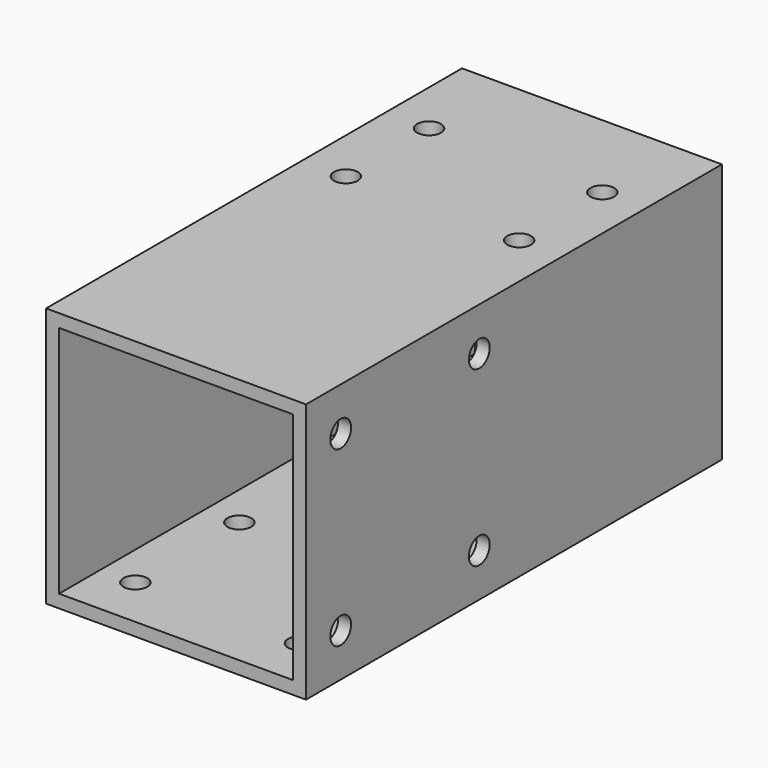
from build123d import *

# Parameters (mm, degrees)
SKETCH_W        = 60
SKETCH_H        = 60
SKETCH_W_2      = 54
SKETCH_H_2      = 54
PAD_DEPTH       = 120
SKETCH001_R     = 2.75
POCKET_DEPTH    = 3
SKETCH002_R     = 2.75
POCKET001_DEPTH = 3
SKETCH003_R     = 3
POCKET002_DEPTH = 3


with BuildPart() as part:
    # Sketch → Pad (new body)
    with BuildSketch(Plane.XZ):
        Rectangle(SKETCH_W, SKETCH_H)
        Rectangle(SKETCH_W_2, SKETCH_H_2, mode=Mode.SUBTRACT)
    extrude(amount=PAD_DEPTH)

    # Sketch001 (on Face3 of Pad) → Pocket (cut)
    with BuildSketch(Plane(origin=(0, 0, -30), x_dir=(1, 0, 0), z_dir=(0, 0, -1))):
        with Locations((-19, 108)):
            Circle(SKETCH001_R)
        with Locations((-19, 78)):
            Circle(SKETCH001_R)
        with Locations((19, 108)):
            Circle(SKETCH001_R)
        with Locations((19, 78)):
            Circle(SKETCH001_R)
        with Locations((-19, 42)):
            Circle(SKETCH001_R)
        with Locations((-19, 12)):
            Circle(SKETCH001_R)
        with Locations((19, 42)):
            Circle(SKETCH001_R)
        with Locations((19, 12)):
            Circle(SKETCH001_R)
    extrude(amount=-POCKET_DEPTH, mode=Mode.SUBTRACT)

    # Sketch002 (on Face1 of Pocket) → Pocket001 (cut)
    with BuildSketch(Plane(origin=(0, 0, 30), x_dir=(-1, 0, 0), z_dir=(0, 0, 1))):
        with Locations((-20, 46)):
            Circle(SKETCH002_R)
        with Locations((-20, 22)):
            Circle(SKETCH002_R)
        with Locations((20, 46)):
            Circle(SKETCH002_R)
        with Locations((20, 22)):
            Circle(SKETCH002_R)
    extrude(amount=-POCKET001_DEPTH, mode=Mode.SUBTRACT)

    # Sketch003 (on Face5 of Pocket001) → Pocket002 (cut)
    with BuildSketch(Plane(origin=(30, 0, 0), x_dir=(0, 0, 1), z_dir=(1, 0, 0))):
        with Locations((-20, 110)):
            Circle(SKETCH003_R)
        with Locations((20, 110)):
            Circle(SKETCH003_R)
        with Locations((-20, 70)):
            Circle(SKETCH003_R)
        with Locations((20, 70)):
            Circle(SKETCH003_R)
    extrude(amount=-POCKET002_DEPTH, mode=Mode.SUBTRACT)


solid = part.part
